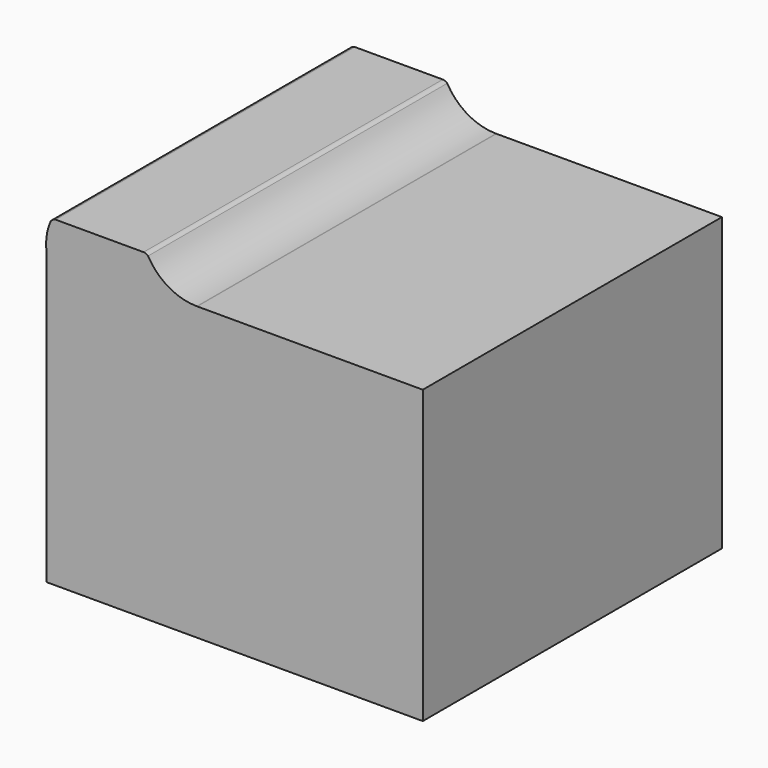
from build123d import *

# Parameters (mm, degrees)
F1_DEPTH = 63.5


with BuildPart() as f1:
    # F0 (on Front) → F1 (new body, symmetric)
    with BuildSketch(Plane.XZ):
        with BuildLine():
            Line((-63.922584, 49.54356), (-63.922584, -49.54356))
            Line((-63.922584, -49.54356), (63.922584, -49.54356))
            Line((63.922584, -49.54356), (63.922584, 49.54356))
            Line((63.922584, 49.54356), (-12.664148, 49.54356))
            ThreePointArc((-12.664148, 49.54356), (-12.753376, 49.543352), (-12.842605, 49.54356))
            ThreePointArc((-12.842605, 49.54356), (-22.403372, 52.152564), (-29.379564, 59.191594))
            ThreePointArc((-29.379564, 59.191594), (-30.075341, 59.673026), (-30.903683, 59.845462))
            Line((-30.903683, 59.845462), (-30.925881, 59.845462))
            Line((-30.925881, 59.845462), (-60.750293, 59.845462))
            ThreePointArc((-60.750293, 59.845462), (-61.72071, 59.502036), (-62.471223, 58.797492))
            ThreePointArc((-62.471223, 58.797492), (-63.803444, 54.265654), (-63.922584, 49.54356))
        make_face()
    extrude(amount=F1_DEPTH, both=True)


solid = f1.part
